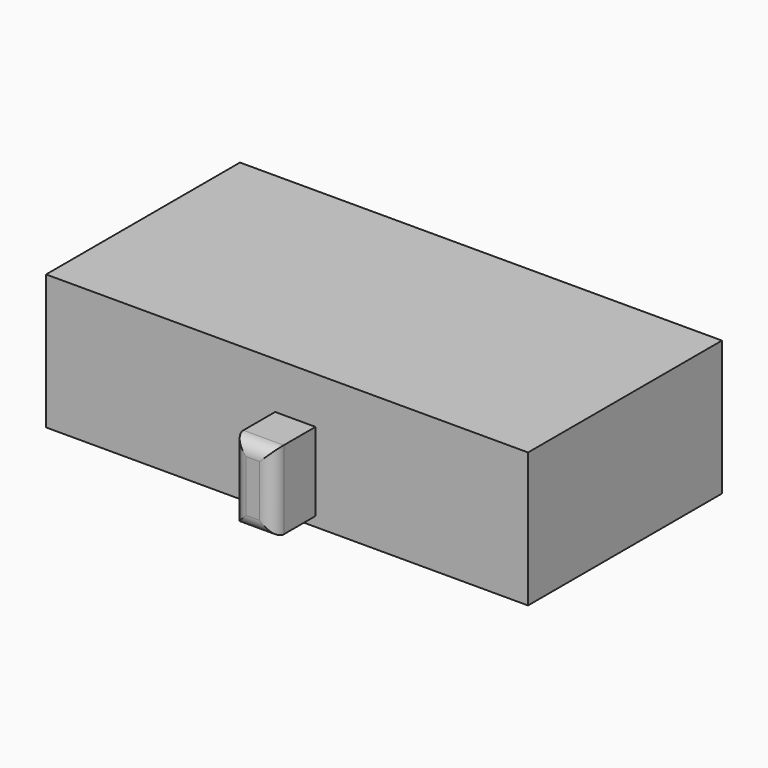
from build123d import *

# Parameters (mm, degrees)
F0_W     = 45.945797
F0_H     = 25.540538
F1_DEPTH = 91.379464
F2_W     = 7.655218
F2_H     = 14.879167
F3_DEPTH = 10.054348
F4_R     = 2.54


with BuildPart() as f1:
    # F0 (on Right) → F1 (new body)
    with BuildSketch(Plane.YZ):
        with Locations((-3.534025, 12.770269)):
            Rectangle(F0_W, F0_H)
    extrude(amount=F1_DEPTH)

    # F2 (on face) → F3 (join)
    with BuildSketch(Plane.XZ.offset(26.506923)):
        with Locations((47.253132, 9.266093)):
            Rectangle(F2_W, F2_H)
    extrude(amount=F3_DEPTH)

    # F4
    f4_edges = [f1.edges().sort_by_distance(p)[0] for p in [
        (43.425523, -36.561271, 9.266093),
        (47.253132, -36.561271, 1.82651),
        (51.080741, -36.561271, 9.266093),
        (47.253132, -36.561271, 16.705677),
    ]]
    fillet(f4_edges, radius=F4_R)


solid = f1.part
